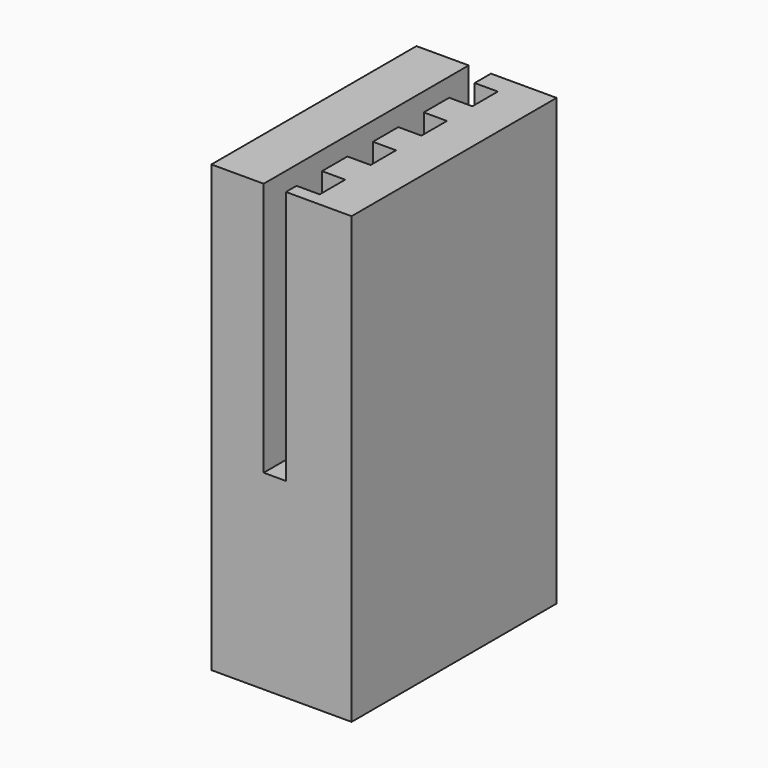
from build123d import *

# Parameters (mm, degrees)
DWIRE007_W       = 1.028705
DWIRE007_H       = 1.001781
EXTRUDE007_DEPTH = 9
ARRAY001_Y_COUNT = 20
ARRAY001_Y_PITCH = 2
DWIRE016_W       = 0.7
DWIRE016_H       = 38.839707
EXTRUDE019_DEPTH = 9
DWIRE017_W       = 4.407525
DWIRE017_H       = 8.059332
EXTRUDE020_DEPTH = 14


with BuildPart() as obj1:
    # DWire007 → Extrude007 (new body)
    with BuildSketch(Plane.XY):
        with Locations((0.514352, 0.500891)):
            Rectangle(DWIRE007_W, DWIRE007_H)
    extrude(amount=EXTRUDE007_DEPTH)


with BuildPart() as obj1_1:
    # Extrude007 placement: moved
    add(obj1.part.moved(Location((0, 0, 6))))

    # Array001 Y: obj1 ×20


with BuildPart() as obj1_2:
    add(obj1_1.part)
    with Locations(*[(0, i * ARRAY001_Y_PITCH, 0) for i in range(1, ARRAY001_Y_COUNT)]):
        add(obj1_1.part)


with BuildPart() as obj2:
    # DWire016 → Extrude019 (new body)
    with BuildSketch(Plane.XY):
        with Locations((-0.05, 19.419853)):
            Rectangle(DWIRE016_W, DWIRE016_H)
    extrude(amount=EXTRUDE019_DEPTH)


with BuildPart() as obj2_1:
    # Extrude019 placement: moved
    add(obj2.part.moved(Location((0, 0, 6))))

    # Fusion002: union obj1
    add(obj1_2.part)


with BuildPart() as obj3:
    # DWire017 → Extrude020 (new body)
    with BuildSketch(Plane.XY):
        with Locations((0.16035, 17.61238)):
            Rectangle(DWIRE017_W, DWIRE017_H)
    extrude(amount=EXTRUDE020_DEPTH)

    # Cut015: cut obj2
    add(obj2_1.part, mode=Mode.SUBTRACT)


solid = obj3.part
